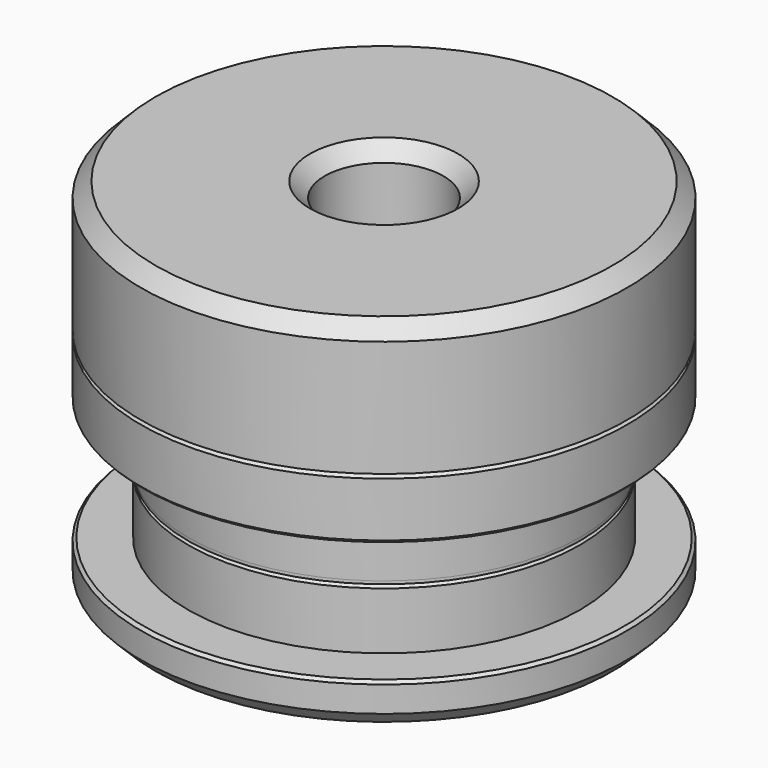
from build123d import *

# Parameters (mm, degrees)
CHAMFER_SIZE    = 1
CHAMFER003_SIZE = 0.2
CHAMFER004_SIZE = 2
SKETCH003_W     = 10
SKETCH003_H     = 3.5
PAD_DEPTH       = 3
POCKET_DEPTH    = 10
CHAMFER005_SIZE = 1
CHAMFER006_SIZE = 1
CHAMFER007_SIZE = 0.5
CHAMFER001_SIZE = 1
CHAMFER002_SIZE = 0.2
CHAMFER008_SIZE = 0.5


with BuildPart() as body:
    # Sketch → Revolution (revolve)
    with BuildSketch(Plane.XZ):
        Polygon((-4.025, 0), (-4.025, 17.145), (-16.5, 17.145), (-16.5, 8.25), (-13.3, 8.25), (-13.3, 0), align=None)
    revolve(axis=Axis((0, 0, 0), (0, 0, 1)))

    # Chamfer
    chamfer_edges = [body.edges().sort_by_distance(p)[0] for p in [
        (16.5, 0, 17.145),
        (4.025, 0, 17.145),
        (4.025, 0, 0),
    ]]
    chamfer(chamfer_edges, length=CHAMFER_SIZE)


with BuildPart() as bushing_top:
    # Sketch001 → Revolution001 (revolve)
    with BuildSketch(Plane.XZ):
        Polygon((-4.025, 0), (-4.025, 9.97), (-16.5, 9.97), (-16.5, 4.075), (-13.3, 4.075), (-13.3, 0), align=None)
    revolve(axis=Axis((0, 0, 0), (0, 0, 1)))

    # Chamfer003
    chamfer003_edges = [bushing_top.edges().sort_by_distance(p)[0] for p in [
        (13.3, 0, 0),
        (16.5, 0, 4.075),
    ]]
    chamfer(chamfer003_edges, length=CHAMFER003_SIZE)

    # Chamfer004
    chamfer004_edges = [bushing_top.edges().sort_by_distance(p)[0] for p in [
        (16.5, 0, 9.97),
    ]]
    chamfer(chamfer004_edges, length=CHAMFER004_SIZE)

    # Sketch003 (on Face4 of Chamfer004) → Pad (new body)
    with BuildSketch(Plane(origin=(0, 0, 9.97), x_dir=(-1, 0, 0), z_dir=(0, 0, 1))):
        with Locations((0, 11.75)):
            Rectangle(SKETCH003_W, SKETCH003_H)
    extrude(amount=PAD_DEPTH)

    # Sketch004 (on Face10 of Pad) → Pocket (cut)
    with BuildSketch(Plane(origin=(5, 0, 0), x_dir=(0, 0, 1), z_dir=(1, 0, 0))):
        with BuildLine():
            ThreePointArc((10.97, 12.45), (10.475025, 11.255025), (11.67, 11.75))
            Line((11.67, 11.75), (12.97, 12.5))
            Line((12.97, 12.5), (12.97, 13.5))
            Line((12.97, 13.5), (11.97, 13.5))
            Line((10.97, 12.45), (11.97, 13.5))
        make_face()
    extrude(amount=-POCKET_DEPTH, mode=Mode.SUBTRACT)

    # Chamfer005
    chamfer005_edges = [bushing_top.edges().sort_by_distance(p)[0] for p in [
        (0, -10, 12.97),
        (5, -10, 11.47),
        (-5, -10, 11.47),
        (5, -13.5, 10.97),
        (-5, -13.5, 10.97),
    ]]
    chamfer(chamfer005_edges, length=CHAMFER005_SIZE)

    # Chamfer006
    chamfer006_edges = [bushing_top.edges().sort_by_distance(p)[0] for p in [
        (4.025, 0, 9.97),
    ]]
    chamfer(chamfer006_edges, length=CHAMFER006_SIZE)

    # Chamfer007
    chamfer007_edges = [bushing_top.edges().sort_by_distance(p)[0] for p in [
        (4.025, 0, 0),
    ]]
    chamfer(chamfer007_edges, length=CHAMFER007_SIZE)


with BuildPart() as bushing_bottom:
    # Sketch002 → Revolution002 (revolve)
    with BuildSketch(Plane.XZ):
        Polygon((-4.025, -0.05), (-13.3, -0.05), (-13.3, -4.125), (-16.5, -4.125), (-16.5, -7.075), (-4.025, -7.075), align=None)
    revolve(axis=Axis((0, 0, 0), (0, 0, 1)))

    # Chamfer001
    chamfer001_edges = [bushing_bottom.edges().sort_by_distance(p)[0] for p in [
        (4.025, 0, -7.075),
        (16.5, 0, -7.075),
    ]]
    chamfer(chamfer001_edges, length=CHAMFER001_SIZE)

    # Chamfer002
    chamfer002_edges = [bushing_bottom.edges().sort_by_distance(p)[0] for p in [
        (13.3, 0, -0.05),
        (16.5, 0, -4.125),
    ]]
    chamfer(chamfer002_edges, length=CHAMFER002_SIZE)

    # Chamfer008
    chamfer008_edges = [bushing_bottom.edges().sort_by_distance(p)[0] for p in [
        (4.025, 0, -0.05),
    ]]
    chamfer(chamfer008_edges, length=CHAMFER008_SIZE)


solid = Compound([body.part, bushing_top.part, bushing_bottom.part])
